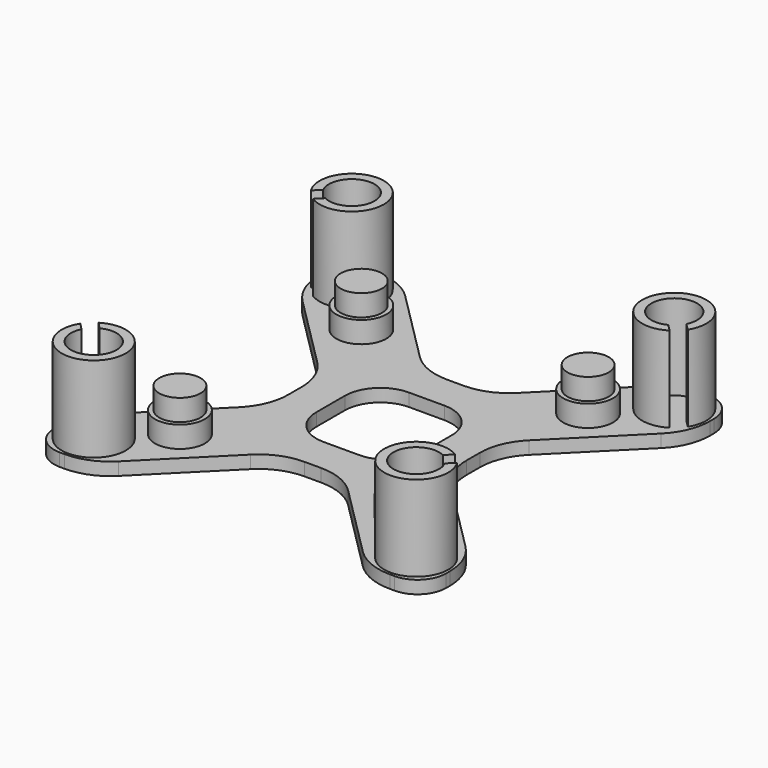
from build123d import *

# Parameters (mm, degrees)
F0_W      = 55
F0_H      = 55
F1_DEPTH  = 1.8
F2_R      = 3.5
F3_DEPTH  = 3
F4_R      = 2.9
F5_DEPTH  = 3
F6_R      = 4.5
F7_DEPTH  = 12
F8_R      = 3.2
F9_DEPTH  = 12
F10_R     = 4
F11_W     = 15
F11_H     = 15
F12_DEPTH = 20
F14_DEPTH = 25
F15_R     = 8
F16_R     = 5


with BuildPart() as f1:
    # F0 (on Top) → F1 (new body)
    with BuildSketch(Plane.XY):
        Rectangle(F0_W, F0_H)
    extrude(amount=F1_DEPTH)

    # F2 (on face) → F3 (join)
    with BuildSketch(Plane.XY.offset(1.8)):
        with Locations((-15.9099025767, 15.9099025767)):
            Circle(F2_R)
        with Locations((15.9099025767, 15.9099025767)):
            Circle(F2_R)
        with Locations((-15.9099025767, -15.9099025767)):
            Circle(F2_R)
        with Locations((15.9099025767, -15.9099025767)):
            Circle(F2_R)
    extrude(amount=F3_DEPTH)

    # F4 (on face) → F5 (join)
    with BuildSketch(Plane.XY.offset(4.8)):
        with Locations((-15.9099025767, 15.9099025767)):
            Circle(F4_R)
        with Locations((15.9099025767, 15.9099025767)):
            Circle(F4_R)
        with Locations((-15.9099025767, -15.9099025767)):
            Circle(F4_R)
        with Locations((15.9099025767, -15.9099025767)):
            Circle(F4_R)
    extrude(amount=F5_DEPTH)

    # F6 (on face) → F7 (join)
    with BuildSketch(Plane.XY.offset(1.8)):
        with Locations((-22.627416998, 22.627416998)):
            Circle(F6_R)
        with Locations((22.627416998, 22.627416998)):
            Circle(F6_R)
        with Locations((22.627416998, -22.627416998)):
            Circle(F6_R)
        with Locations((-22.627416998, -22.627416998)):
            Circle(F6_R)
    extrude(amount=F7_DEPTH)

    # F8 (on face) → F9 (cut)
    with BuildSketch(Plane.XY.offset(13.8)):
        with Locations((-22.627416998, -22.627416998)):
            Circle(F8_R)
        with Locations((22.627416998, -22.627416998)):
            Circle(F8_R)
        with Locations((-22.627416998, 22.627416998)):
            Circle(F8_R)
        with Locations((22.627416998, 22.627416998)):
            Circle(F8_R)
    extrude(amount=-F9_DEPTH, mode=Mode.SUBTRACT)

    # F10
    f10_edges = [f1.edges().sort_by_distance(p)[0] for p in [
        (27.5, -27.5, 0.9),
        (-27.5, -27.5, 0.9),
        (-27.5, 27.5, 0.9),
        (27.5, 27.5, 0.9),
    ]]
    fillet(f10_edges, radius=F10_R)

    # F11 (on face) → F12 (cut, symmetric)
    with BuildSketch(Plane.XY.offset(1.8)):
        Polygon((-12.5, 4.5), (-27.5, 19.5), (-27.5, -19.5), (-12.5, -4.5), align=None)
        Polygon((19.5, 27.5), (-19.5, 27.5), (-4.5, 12.5), (4.5, 12.5), align=None)
        Polygon((27.5, -19.5), (27.5, 19.5), (12.5, 4.5), (12.5, -4.5), align=None)
        Polygon((-4.5, -12.5), (-19.5, -27.5), (19.5, -27.5), (4.5, -12.5), align=None)
        Rectangle(F11_W, F11_H)
    extrude(amount=F12_DEPTH, both=True, mode=Mode.SUBTRACT)

    # F13 (on face) → F14 (cut)
    with BuildSketch(Plane.XY.offset(1.8)):
        Polygon((-26.8456843913, 19.823363167), (-25.4314708289, 18.4091496047), (-22.6030437041, 21.2375767294), (-24.0172572665, 22.6517902918), align=None)
        Polygon((22.6030437041, 21.2375767294), (25.4314708289, 18.4091496047), (26.8456843913, 19.823363167), (24.0172572665, 22.6517902918), align=None)
        Polygon((-25.4314708289, -18.4091496047), (-26.8456843913, -19.823363167), (-24.0172572665, -22.6517902918), (-22.6030437041, -21.2375767294), align=None)
        Polygon((26.8456843913, -19.823363167), (25.4314708289, -18.4091496047), (22.6030437041, -21.2375767294), (24.0172572665, -22.6517902918), align=None)
    extrude(amount=F14_DEPTH, mode=Mode.SUBTRACT)

    # F15
    f15_edges = [f1.edges().sort_by_distance(p)[0] for p in [
        (19.5, -27.5, 0.9),
        (4.5, -12.5, 0.9),
        (-4.5, -12.5, 0.9),
        (-19.5, -27.5, 0.9),
        (-27.5, -19.5, 0.9),
        (-12.5, -4.5, 0.9),
        (-12.5, 4.5, 0.9),
        (-27.5, 19.5, 0.9),
        (-19.5, 27.5, 0.9),
        (-4.5, 12.5, 0.9),
        (4.5, 12.5, 0.9),
        (19.5, 27.5, 0.9),
        (12.5, -4.5, 0.9),
        (12.5, 4.5, 0.9),
        (27.5, 19.5, 0.9),
        (27.5, -19.5, 0.9),
    ]]
    fillet(f15_edges, radius=F15_R)

    # F16
    f16_edges = [f1.edges().sort_by_distance(p)[0] for p in [
        (-7.5, 7.5, 0.9),
        (7.5, 7.5, 0.9),
        (7.5, -7.5, 0.9),
        (-7.5, -7.5, 0.9),
    ]]
    fillet(f16_edges, radius=F16_R)


solid = f1.part
